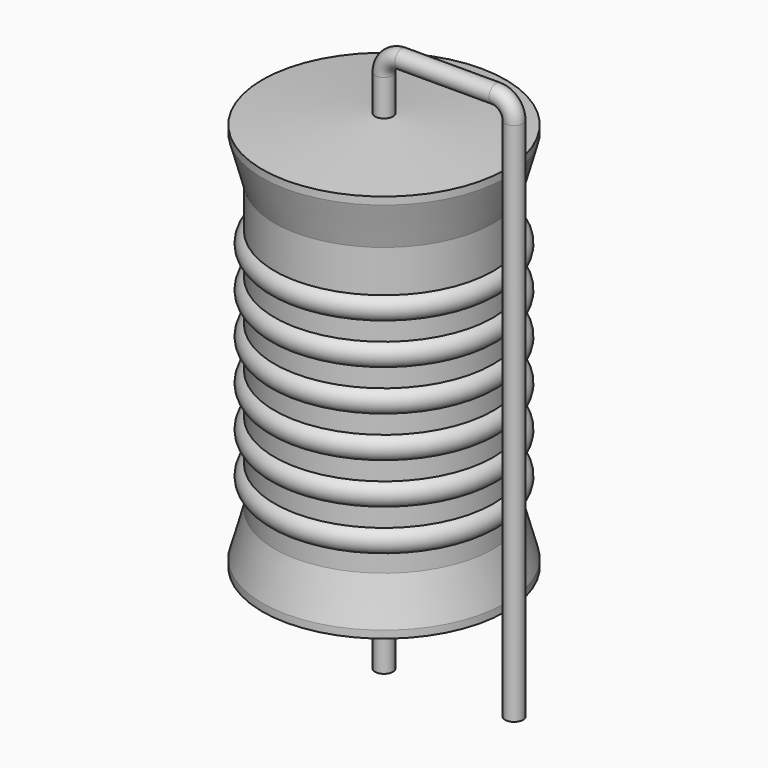
from build123d import *

# Parameters (mm, degrees)
SKETCH_R = 0.35


with BuildPart() as sweep_body:
    # Sweep: sweep along a path in Sketch001
    with BuildLine(Plane.XZ) as sweep_path:
        Line((0, -3), (0, 17.5))
        ThreePointArc((0, 17.5), (0.205023, 17.994972), (0.699993, 18.2))
        Line((0.699993, 18.2), (4.38, 18.2))
        ThreePointArc((4.38, 18.2), (4.874975, 17.994975), (5.08, 17.5))
        Line((5.08, 17.5), (5.08, -3))
    # Sketch → Sweep (sweep)
    with BuildSketch(Plane.XY.offset(-2)):
        Circle(SKETCH_R)
    sweep(path=sweep_path.line)


with BuildPart() as revolution:
    # Sketch002 → Revolution (revolve)
    with BuildSketch(Plane.XZ):
        Polygon((0, 0.1), (0, 16.1), (0.2625, 16.1), (4.75, 15.7), (4.75, 15.4075), (4.275, 13.7), (4.275, 2.5), (4.75, 0.7925), (4.75, 0.5), (0.2625, 0.1), align=None)
    revolve(axis=Axis((0, 0, 0), (0, 0, 1)))


with BuildPart() as revolution001:
    # Sketch003 → Revolution001 (revolve)
    with BuildSketch(Plane.XZ):
        with BuildLine():
            Line((3.8, 12.75), (3.8, 2.5))
            Line((3.8, 2.5), (4.085, 2.5))
            Line((4.085, 2.5), (4.085, 3.15))
            ThreePointArc((4.085, 3.15), (4.56, 3.625), (4.085, 4.1))
            Line((4.085, 4.1), (4.085, 4.75))
            ThreePointArc((4.085, 4.75), (4.56, 5.225), (4.085, 5.7))
            Line((4.085, 5.7), (4.085, 6.35))
            ThreePointArc((4.085, 6.35), (4.56, 6.825), (4.085, 7.3))
            Line((4.085, 7.3), (4.085, 7.95))
            ThreePointArc((4.085, 7.95), (4.56, 8.425), (4.085, 8.9))
            Line((4.085, 8.9), (4.085, 9.55))
            ThreePointArc((4.085, 9.55), (4.56, 10.025), (4.085, 10.5))
            Line((4.085, 10.5), (4.085, 11.15))
            ThreePointArc((4.085, 11.15), (4.56, 11.625), (4.085, 12.1))
            Line((4.085, 12.75), (4.085, 12.1))
            Line((3.8, 12.75), (4.085, 12.75))
        make_face()
    revolve(axis=Axis((0, 0, 0), (0, 0, 1)))


solid = Compound([sweep_body.part, revolution.part, revolution001.part])
